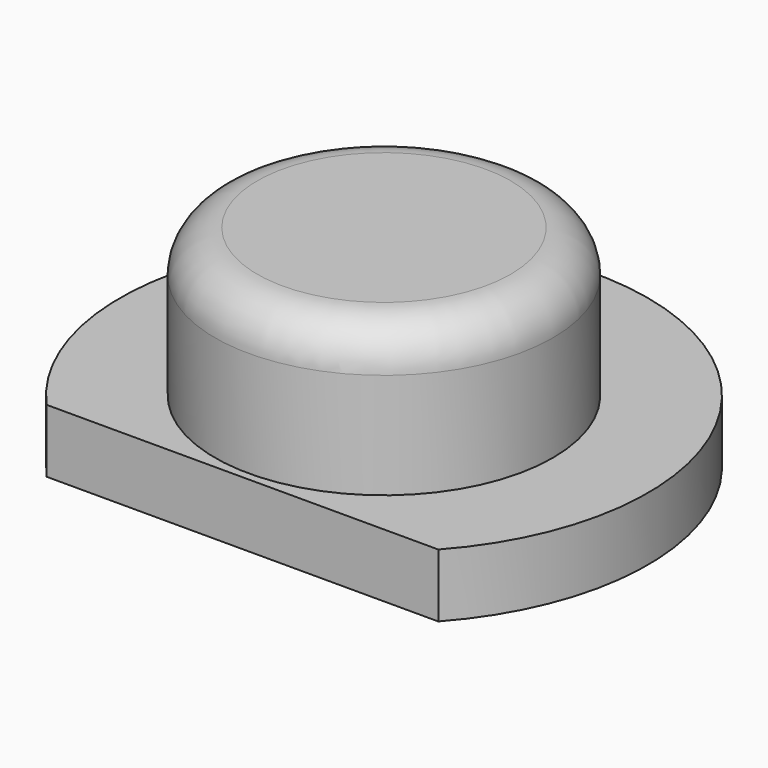
from build123d import *

# Parameters (mm, degrees)
BOX118_W          = 10
BOX118_H          = 10
BOX118_DEPTH      = 10
CYLINDER021_R     = 4
CYLINDER021_DEPTH = 5
FILLET004_R       = 1
CYLINDER020_R     = 6.25
CYLINDER020_DEPTH = 1.5


with BuildPart() as cube108:
    # Box118 → Box118 (new body)
    with BuildSketch(Plane(origin=(97.4, -10.4, 0), x_dir=(1, 0, 0), z_dir=(0, 0, 1))):
        with Locations((5, 5)):
            Rectangle(BOX118_W, BOX118_H)
    extrude(amount=BOX118_DEPTH)


with BuildPart() as obj1:
    # Cylinder021 → Cylinder021 (new body)
    with BuildSketch(Plane(origin=(120.31, 3.79, 6.3), x_dir=(1, 0, 0), z_dir=(0, 0, 1))):
        Circle(CYLINDER021_R)
    extrude(amount=CYLINDER021_DEPTH)

    # Fillet004
    fillet004_edges = [obj1.edges().sort_by_distance(p)[0] for p in [
        (116.31, 3.79, 11.3),
    ]]
    fillet(fillet004_edges, radius=FILLET004_R)


with BuildPart() as cut074:
    # Cylinder020 → Cylinder020 (new body)
    with BuildSketch(Plane(origin=(120.31, 3.79, 6.3), x_dir=(1, 0, 0), z_dir=(0, 0, 1))):
        Circle(CYLINDER020_R)
    extrude(amount=CYLINDER020_DEPTH)

    # Fusion015: union obj1
    add(obj1.part)


with BuildPart() as cut074_1:
    # Fusion015 placement: moved
    add(cut074.part.moved(Location((-18, 0, 0))))

    # Cut074: cut Cube108
    add(cube108.part, mode=Mode.SUBTRACT)


solid = cut074_1.part
